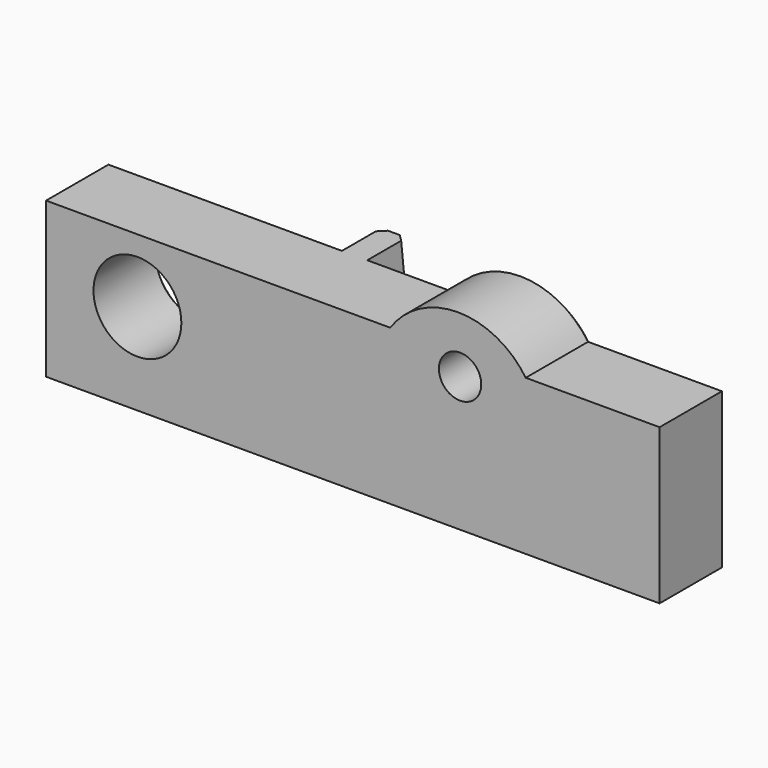
from build123d import *

# Parameters (mm, degrees)
F0_R     = 6.5898328627
F1_DEPTH = 12.7
F3_DEPTH = 6.35
F4_SIZE  = 1.016
F6_D     = 6.35


with BuildPart() as f1:
    # F0 (on Front) → F1 (new body)
    with BuildSketch(Plane.XZ):
        with BuildLine():
            Line((5.9883656788, 26.1059254408), (-45.6207543612, 26.1059254408))
            Line((-45.6207543612, 26.1059254408), (-45.6207543612, 2.8432162944))
            Line((-45.6207543612, 2.8432162944), (46.3961809874, 2.8432162944))
            Line((46.3961809874, 2.8432162944), (46.3961809874, 26.1059254408))
            Line((46.3961809874, 26.1059254408), (26.3209578705, 26.1059254408))
            ThreePointArc((26.3209578705, 26.1059254408), (27.9321742637, 22.7805506138), (28.4858180464, 19.127111882))
            ThreePointArc((28.4858180464, 19.127111882), (12.5012230428, 7.3495993929), (5.9883656788, 26.1059254408))
        make_face()
        with Locations((-31.9216027856, 16.5423676372)):
            Circle(F0_R, mode=Mode.SUBTRACT)
        with BuildLine():
            ThreePointArc((26.3209578705, 26.1059254408), (16.1546617746, 31.4582681537), (5.9883656788, 26.1059254408))
            Line((5.9883656788, 26.1059254408), (26.3209578705, 26.1059254408))
        make_face()
        with BuildLine():
            Line((26.3209578705, 26.1059254408), (5.9883656788, 26.1059254408))
            ThreePointArc((5.9883656788, 26.1059254408), (12.5012230428, 7.3495993929), (28.4858180464, 19.127111882))
            ThreePointArc((28.4858180464, 19.127111882), (27.9321742637, 22.7805506138), (26.3209578705, 26.1059254408))
        make_face()
    extrude(amount=F1_DEPTH)

    # F2 (on face) → F3 (join)
    with BuildSketch(Plane(origin=(0, 0, 0), x_dir=(-1, 0, 0), z_dir=(0, 1, 0))):
        Polygon((6.7886244506, 26.1059254408), (4.4478680938, 2.8432162944), (8.4228813648, 2.8432162944), (10.5955973268, 26.1059254408), align=None)
    extrude(amount=F3_DEPTH)

    # F4
    f4_edges = [f1.edges().sort_by_distance(p)[0] for p in [
        (-9.509239, 6.35, 14.474571),
        (-5.618246, 6.35, 14.474571),
        (20.974156, 0, 2.843216),
        (-27.021818, 0, 2.843216),
        (-38.511436, 0, 16.542368),
        (16.154662, 0, 31.458268),
        (-0.400129, 0, 26.105925),
        (-28.108176, 0, 26.105925),
        (-45.620754, 0, 14.474571),
        (46.396181, 0, 14.474571),
        (36.358569, 0, 26.105925),
    ]]
    chamfer(f4_edges, length=F4_SIZE)

    # F6 (through all)
    with Locations(Plane(origin=(0, 0, 0), x_dir=(-1, 0, 0), z_dir=(0, 1, 0))):
        with Locations((-16.4722520858, 23.0548288673)):
            Hole(F6_D / 2)


solid = f1.part
